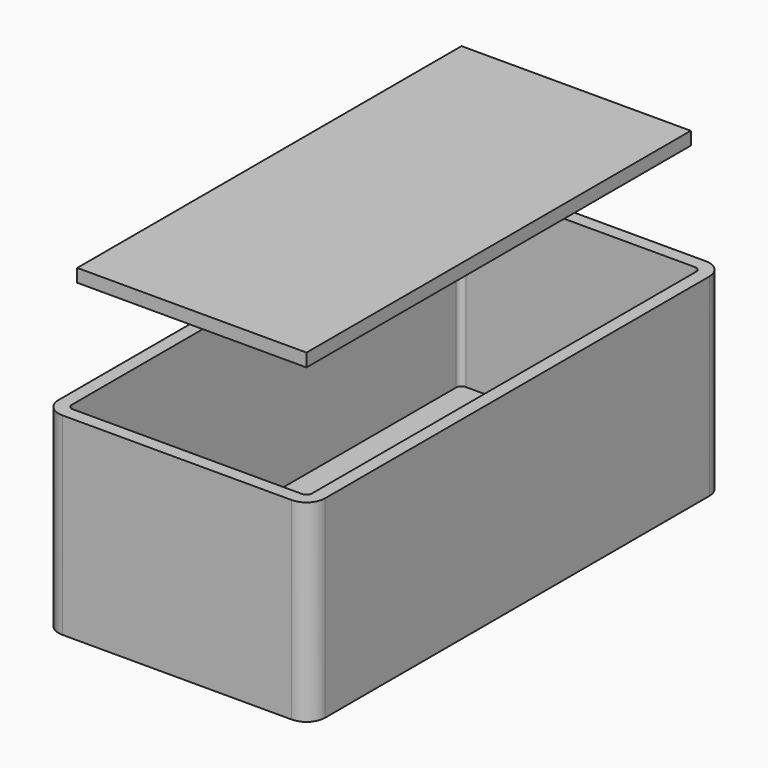
from build123d import *

# Parameters (mm, degrees)
F1_DEPTH = 1.2
F2_DEPTH = 16.5
F4_W     = 21
F4_H     = 44
F5_DEPTH = 1.2


with BuildPart() as f1:
    # F0 (on Top) → F1 (new body)
    with BuildSketch(Plane.XY):
        with BuildLine():
            Line((-12.2, 22), (-12.2, -22))
            ThreePointArc((-12.2, -22), (-11.702082, -23.202082), (-10.5, -23.7))
            Line((-10.5, -23.7), (10.5, -23.7))
            ThreePointArc((10.5, -23.7), (11.702082, -23.202082), (12.2, -22))
            Line((12.2, -22), (12.2, 22))
            ThreePointArc((12.2, 22), (11.702082, 23.202082), (10.5, 23.7))
            Line((10.5, 23.7), (-10.5, 23.7))
            ThreePointArc((-10.5, 23.7), (-11.702082, 23.202082), (-12.2, 22))
        make_face()
        with BuildLine():
            ThreePointArc((11, -22), (10.853553, -22.353553), (10.5, -22.5))
            Line((10.5, -22.5), (-10.5, -22.5))
            ThreePointArc((-10.5, -22.5), (-10.853553, -22.353553), (-11, -22))
            Line((-11, -22), (-11, 22))
            ThreePointArc((-11, 22), (-10.853553, 22.353553), (-10.5, 22.5))
            Line((-10.5, 22.5), (10.5, 22.5))
            ThreePointArc((10.5, 22.5), (10.853553, 22.353553), (11, 22))
            Line((11, 22), (11, -22))
        make_face(mode=Mode.SUBTRACT)
        with BuildLine():
            Line((-10.5, -22.5), (10.5, -22.5))
            ThreePointArc((10.5, -22.5), (10.853553, -22.353553), (11, -22))
            Line((11, -22), (11, 22))
            ThreePointArc((11, 22), (10.853553, 22.353553), (10.5, 22.5))
            Line((10.5, 22.5), (-10.5, 22.5))
            ThreePointArc((-10.5, 22.5), (-10.853553, 22.353553), (-11, 22))
            Line((-11, 22), (-11, -22))
            ThreePointArc((-11, -22), (-10.853553, -22.353553), (-10.5, -22.5))
        make_face()
    extrude(amount=-F1_DEPTH)

    # F0 (on Top) → F2 (join)
    with BuildSketch(Plane.XY):
        with BuildLine():
            Line((-12.2, 22), (-12.2, -22))
            ThreePointArc((-12.2, -22), (-11.702082, -23.202082), (-10.5, -23.7))
            Line((-10.5, -23.7), (10.5, -23.7))
            ThreePointArc((10.5, -23.7), (11.702082, -23.202082), (12.2, -22))
            Line((12.2, -22), (12.2, 22))
            ThreePointArc((12.2, 22), (11.702082, 23.202082), (10.5, 23.7))
            Line((10.5, 23.7), (-10.5, 23.7))
            ThreePointArc((-10.5, 23.7), (-11.702082, 23.202082), (-12.2, 22))
        make_face()
        with BuildLine():
            ThreePointArc((11, -22), (10.853553, -22.353553), (10.5, -22.5))
            Line((10.5, -22.5), (-10.5, -22.5))
            ThreePointArc((-10.5, -22.5), (-10.853553, -22.353553), (-11, -22))
            Line((-11, -22), (-11, 22))
            ThreePointArc((-11, 22), (-10.853553, 22.353553), (-10.5, 22.5))
            Line((-10.5, 22.5), (10.5, 22.5))
            ThreePointArc((10.5, 22.5), (10.853553, 22.353553), (11, 22))
            Line((11, 22), (11, -22))
        make_face(mode=Mode.SUBTRACT)
    extrude(amount=F2_DEPTH)


with BuildPart() as f5:
    # F4 (on offset) → F5 (new body)
    with BuildSketch(Plane.XY.offset(26.5)):
        Rectangle(F4_W, F4_H)
    extrude(amount=F5_DEPTH)


solid = Compound([f1.part, f5.part])
